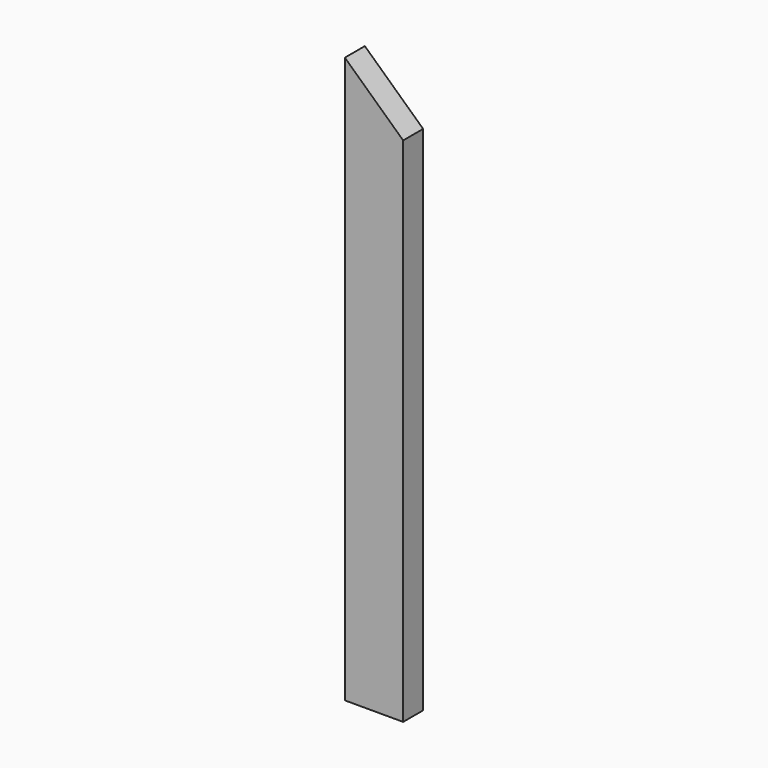
from build123d import *

# Parameters (mm, degrees)
F0_W     = 88.9
F0_H     = 38.1
F1_DEPTH = 901.7
F3_DEPTH = 38.1


with BuildPart() as f1:
    # F0 (on Top) → F1 (new body)
    with BuildSketch(Plane.XY):
        with Locations((44.45, 19.05)):
            Rectangle(F0_W, F0_H)
    extrude(amount=F1_DEPTH)

    # F2 (on face) → F3 (cut)
    with BuildSketch(Plane.XZ):
        Polygon((0, 983.9325), (0, 901.7), (88.9, 901.7), align=None)
        Polygon((88.9, 901.7), (0, 901.7), (0, 862.83292), (88.9, 780.60042), align=None)
    extrude(amount=-F3_DEPTH, mode=Mode.SUBTRACT)


solid = f1.part
